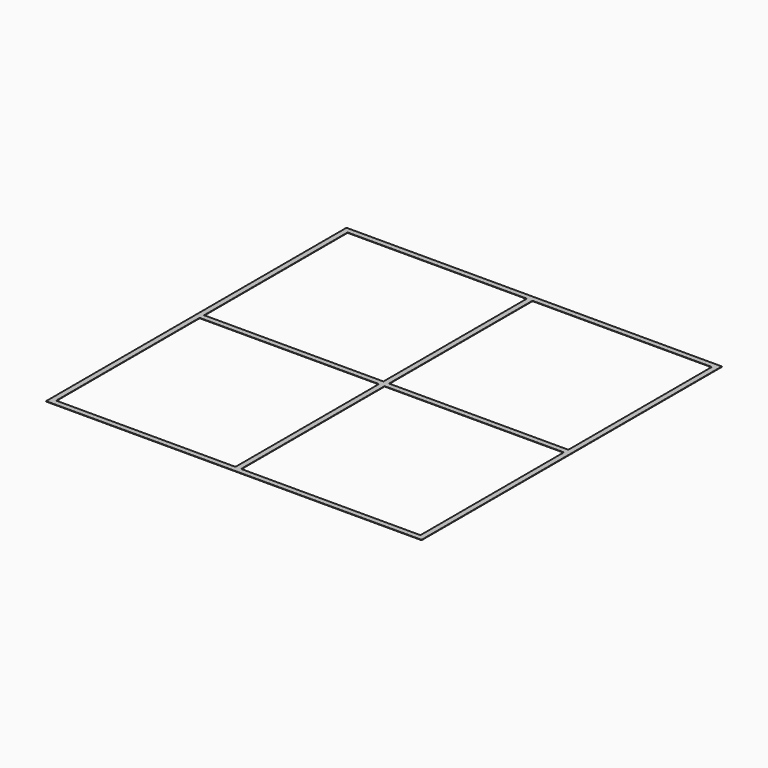
from build123d import *

# Parameters (mm, degrees)
F0_W     = 95.5
F0_H     = 95.5
F1_DEPTH = 0.2


with BuildPart() as f1:
    # F0 (on Top) → F1 (new body)
    with BuildSketch(Plane.XY):
        Polygon((1.5, -100), (100, -100), (100, -1.5), (100, 1.5), (100, 100), (1.5, 100), (-1.5, 100), (-100, 100), (-100, 1.5), (-100, -1.5), (-100, -100), (-1.5, -100), align=None)
        with Locations((-49.25, -49.25)):
            Rectangle(F0_W, F0_H, mode=Mode.SUBTRACT)
        with Locations((49.25, -49.25)):
            Rectangle(F0_W, F0_H, mode=Mode.SUBTRACT)
        with Locations((-49.25, 49.25)):
            Rectangle(F0_W, F0_H, mode=Mode.SUBTRACT)
        with Locations((49.25, 49.25)):
            Rectangle(F0_W, F0_H, mode=Mode.SUBTRACT)
    extrude(amount=F1_DEPTH)


solid = f1.part
